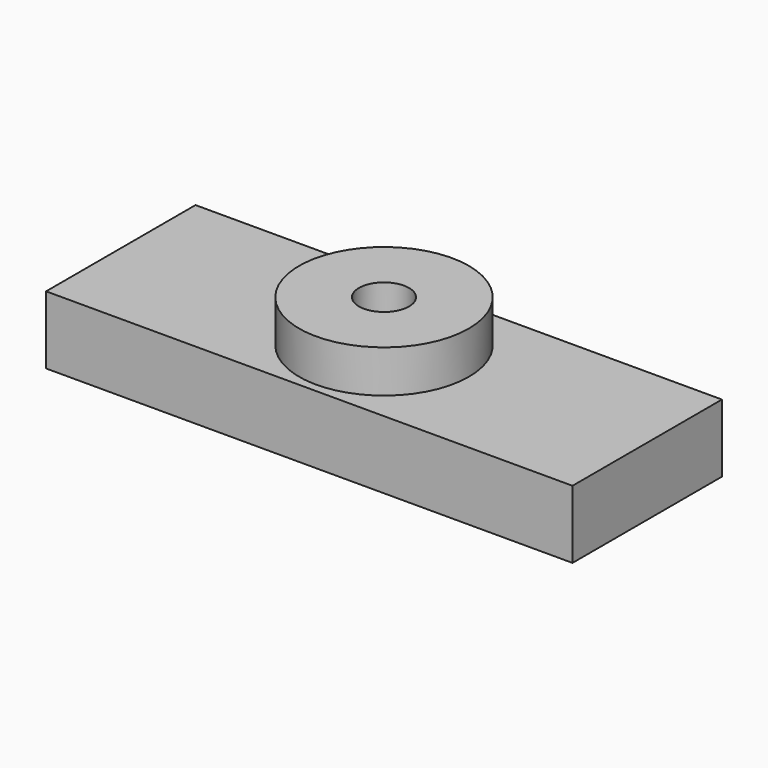
from build123d import *

# Parameters (mm, degrees)
PRISM001_DEPTH    = 3.5
CYLINDER006_R     = 2.95
CYLINDER006_DEPTH = 25
CYLINDER005_R     = 10
CYLINDER005_DEPTH = 13
CYLINDER007_R     = 2.85
CYLINDER007_DEPTH = 25
BOX002_W          = 62
BOX002_H          = 8
BOX002_DEPTH      = 22


with BuildPart() as prisma001:
    # Prism001 → Prism001 (new body)
    with BuildSketch(Plane(origin=(0, 8, 9), x_dir=(1, 0, 0), z_dir=(0, -1, 0))):
        Polygon((3.5, 0), (1.75, 3.031089), (-1.75, 3.031089), (-3.5, 0), (-1.75, -3.031089), (1.75, -3.031089), align=None)
    extrude(amount=PRISM001_DEPTH)


with BuildPart() as cilindro006:
    # Cylinder006 → Cylinder006 (new body)
    with BuildSketch(Plane.XY.offset(-7)):
        Circle(CYLINDER006_R)
    extrude(amount=CYLINDER006_DEPTH)


with BuildPart() as cut006:
    # Cylinder005 → Cylinder005 (new body)
    with BuildSketch(Plane.XY):
        Circle(CYLINDER005_R)
    extrude(amount=CYLINDER005_DEPTH)

    # Cut005: cut Cilindro006
    add(cilindro006.part, mode=Mode.SUBTRACT)

    # Cut006: cut Prisma001
    add(prisma001.part, mode=Mode.SUBTRACT)


with BuildPart() as cilindro007:
    # Cylinder007 → Cylinder007 (new body)
    with BuildSketch(Plane.XY.offset(-7)):
        Circle(CYLINDER007_R)
    extrude(amount=CYLINDER007_DEPTH)


with BuildPart() as fusion:
    # Box002 → Box002 (new body)
    with BuildSketch(Plane(origin=(-31, 11, 0), x_dir=(1, 0, 0), z_dir=(0, -1, 0))):
        with Locations((31, 4)):
            Rectangle(BOX002_W, BOX002_H)
    extrude(amount=BOX002_DEPTH)

    # Cut: cut Cilindro007
    add(cilindro007.part, mode=Mode.SUBTRACT)

    # Fusion: union Cut006
    add(cut006.part)


solid = fusion.part
